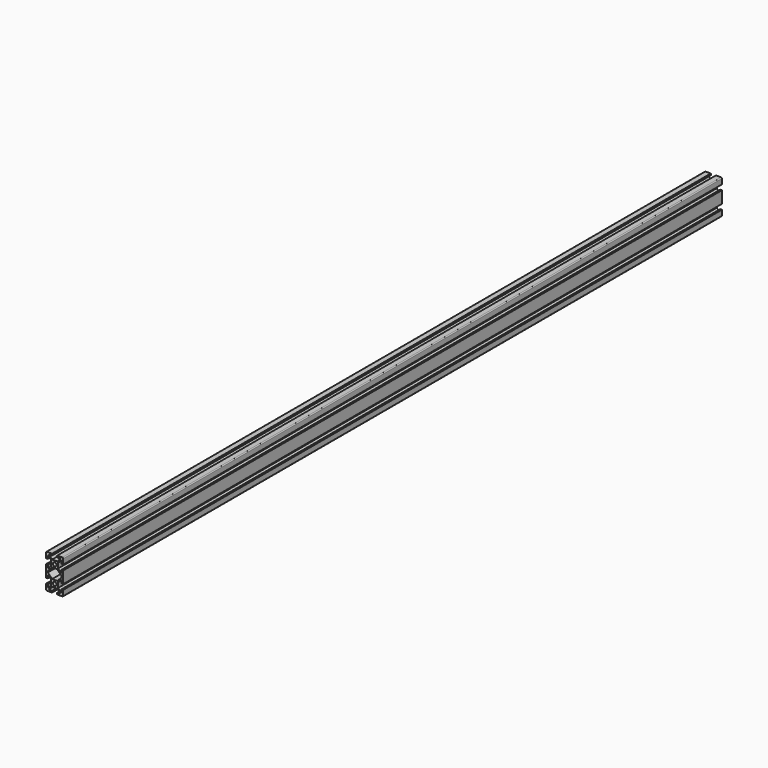
from build123d import *

# Parameters (mm, degrees)
F0_R     = 2.1
F1_DEPTH = 960


with BuildPart() as f1:
    # F0 (on Front) → F1 (new body)
    with BuildSketch(Plane.XZ):
        with BuildLine():
            ThreePointArc((9.944745, 8.840758), (9.651851, 9.547865), (8.944745, 9.840758))
            Line((8.944745, 9.840758), (2.944745, 9.840758))
            Line((2.944745, 9.840758), (2.944745, 7.840758))
            Line((2.944745, 7.840758), (6.884085, 7.840758))
            Line((6.884085, 7.840758), (2.884085, 3.840758))
            Line((2.884085, 3.840758), (-2.994595, 3.840758))
            Line((-2.994595, 3.840758), (-6.994595, 7.840758))
            Line((-6.994595, 7.840758), (-3.055255, 7.840758))
            Line((-3.055255, 7.840758), (-3.055255, 9.840758))
            Line((-3.055255, 9.840758), (-9.055255, 9.840758))
            ThreePointArc((-9.055255, 9.840758), (-9.762362, 9.547865), (-10.055255, 8.840758))
            Line((-10.055255, 8.840758), (-10.055255, 2.840758))
            Line((-10.055255, 2.840758), (-8.055255, 2.840758))
            Line((-8.055255, 2.840758), (-8.055255, 6.780098))
            Line((-8.055255, 6.780098), (-4.055255, 2.780098))
            Line((-4.055255, 2.780098), (-4.055255, -3.098581))
            Line((-4.055255, -3.098581), (-8.055255, -7.098581))
            Line((-8.055255, -7.098581), (-8.055255, -3.159242))
            Line((-8.055255, -3.159242), (-10.055255, -3.159242))
            Line((-10.055255, -3.159242), (-10.055255, -10.159242))
            Line((-10.055255, -10.159242), (-10.055255, -17.159242))
            Line((-10.055255, -17.159242), (-8.055255, -17.159242))
            Line((-8.055255, -17.159242), (-8.055255, -13.219902))
            Line((-8.055255, -13.219902), (-4.055255, -17.219902))
            Line((-4.055255, -17.219902), (-4.055255, -23.098581))
            Line((-4.055255, -23.098581), (-8.055255, -27.098581))
            Line((-8.055255, -27.098581), (-8.055255, -23.159242))
            Line((-8.055255, -23.159242), (-10.055255, -23.159242))
            Line((-10.055255, -23.159242), (-10.055255, -29.159242))
            ThreePointArc((-10.055255, -29.159242), (-9.762362, -29.866348), (-9.055255, -30.159242))
            Line((-9.055255, -30.159242), (-3.055255, -30.159242))
            Line((-3.055255, -30.159242), (-3.055255, -28.159242))
            Line((-3.055255, -28.159242), (-6.994595, -28.159242))
            Line((-6.994595, -28.159242), (-2.994595, -24.159242))
            Line((-2.994595, -24.159242), (2.884085, -24.159242))
            Line((2.884085, -24.159242), (6.884085, -28.159242))
            Line((6.884085, -28.159242), (2.944745, -28.159242))
            Line((2.944745, -28.159242), (2.944745, -30.159242))
            Line((2.944745, -30.159242), (8.944745, -30.159242))
            ThreePointArc((8.944745, -30.159242), (9.651851, -29.866348), (9.944745, -29.159242))
            Line((9.944745, -29.159242), (9.944745, -23.159242))
            Line((9.944745, -23.159242), (7.944745, -23.159242))
            Line((7.944745, -23.159242), (7.944745, -27.098581))
            Line((7.944745, -27.098581), (3.944745, -23.098581))
            Line((3.944745, -23.098581), (3.944745, -17.219902))
            Line((3.944745, -17.219902), (7.944745, -13.219902))
            Line((7.944745, -13.219902), (7.944745, -17.159242))
            Line((7.944745, -17.159242), (9.944745, -17.159242))
            Line((9.944745, -17.159242), (9.944745, -10.159242))
            Line((9.944745, -10.159242), (9.944745, -3.159242))
            Line((9.944745, -3.159242), (7.944745, -3.159242))
            Line((7.944745, -3.159242), (7.944745, -7.098581))
            Line((7.944745, -7.098581), (3.944745, -3.098581))
            Line((3.944745, -3.098581), (3.944745, 2.780098))
            Line((3.944745, 2.780098), (7.944745, 6.780098))
            Line((7.944745, 6.780098), (7.944745, 2.840758))
            Line((7.944745, 2.840758), (9.944745, 2.840758))
            Line((9.944745, 2.840758), (9.944745, 8.840758))
        make_face()
        with Locations((-0.055255, -20.159242)):
            Circle(F0_R, mode=Mode.SUBTRACT)
        Polygon((-2.994595, -4.159242), (2.884085, -4.159242), (7.944745, -9.219902), (7.944745, -10.159242), (7.944745, -11.098581), (2.884085, -16.159242), (-2.994595, -16.159242), (-8.055255, -11.098581), (-8.055255, -10.159242), (-8.055255, -9.219902), align=None, mode=Mode.SUBTRACT)
        with Locations((-0.055255, -0.159242)):
            Circle(F0_R, mode=Mode.SUBTRACT)
    extrude(amount=F1_DEPTH)


solid = f1.part
